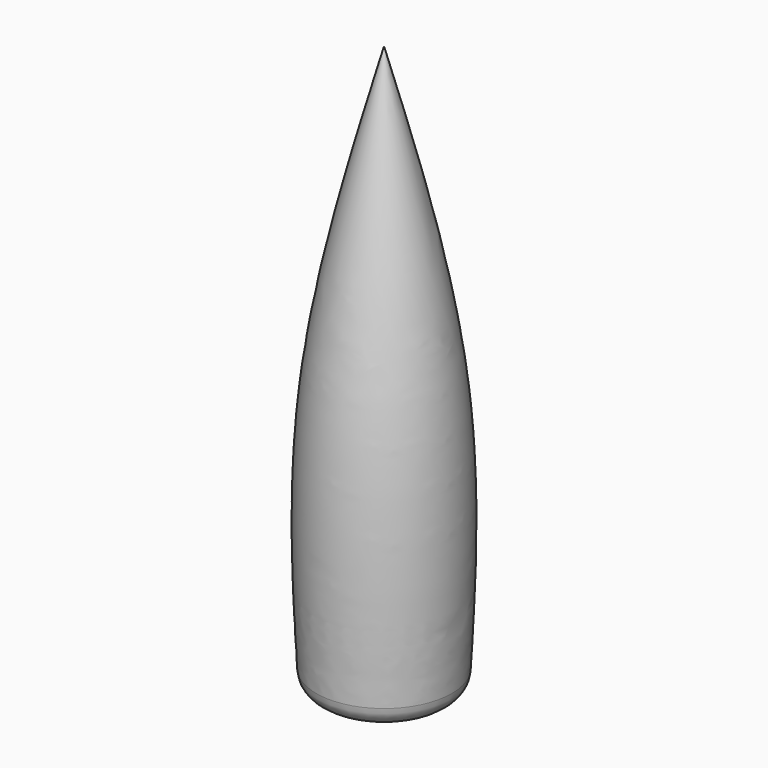
from build123d import *

# Parameters (mm, degrees)
F2_R = 1.016


with BuildPart() as f1:
    # F0 (on Front) → F1 (revolve)
    with BuildSketch(Plane.XZ):
        with BuildLine():
            add(Edge.make_bspline(
                [(-3.158291569, 0), (-3.397837167, 4.2214733455), (-3.8416803194, 12.9332491794), (-1.3240537502, 22.1632602317), (0, 26.9206576049)],
                knots=[0, 0, 0, 0, 0.4844284673, 1, 1, 1, 1], degree=3))
            Line((-3.158291569, 0), (0, 0))
            Line((0, 0), (0, 26.9206576049))
        make_face()
    revolve(axis=Axis((0, 0, 13.4603288025), (0, 0, 1)))

    # F2
    f2_edges = [f1.edges().sort_by_distance(p)[0] for p in [
        (3.158292, 0, 0),
    ]]
    fillet(f2_edges, radius=F2_R)


solid = f1.part
